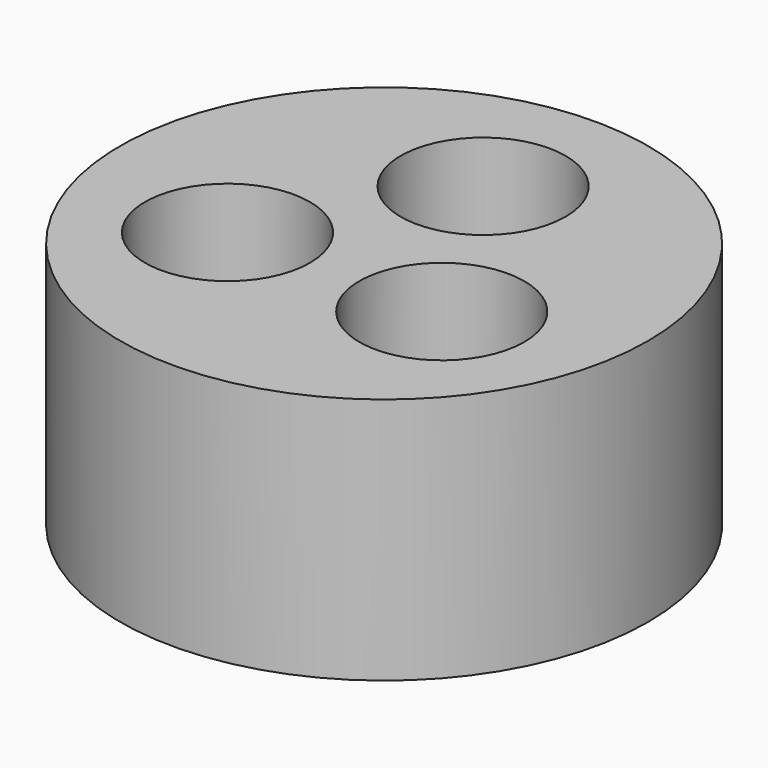
from build123d import *

# Parameters (mm, degrees)
F0_R     = 12.8
F0_R_2   = 4
F1_DEPTH = 12


with BuildPart() as f1:
    # F0 (on Top) → F1 (new body)
    with BuildSketch(Plane.XY):
        Circle(F0_R)
        with Locations((-5.196152, -3)):
            Circle(F0_R_2, mode=Mode.SUBTRACT)
        with Locations((5.196152, -3)):
            Circle(F0_R_2, mode=Mode.SUBTRACT)
        with Locations((0, 6)):
            Circle(F0_R_2, mode=Mode.SUBTRACT)
    extrude(amount=F1_DEPTH)


solid = f1.part
